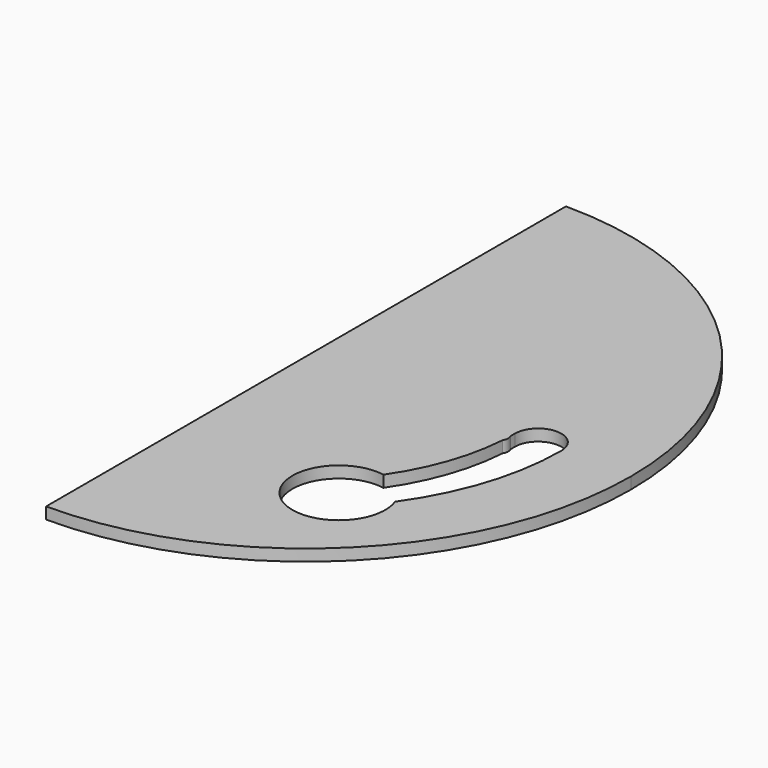
from build123d import *

# Parameters (mm, degrees)
F1_DEPTH = 1.5875


with BuildPart() as f1:
    # F0 (on Top) → F1 (new body)
    with BuildSketch(Plane.XY):
        with BuildLine():
            ThreePointArc((0, -44.45), (31.430896, -31.430896), (44.45, 0))
            ThreePointArc((44.45, 0), (31.430896, 31.430896), (0, 44.45))
            Line((0, 44.45), (0, -44.45))
        make_face()
        with BuildLine():
            ThreePointArc((28.575, 0), (31.75, 3.175), (34.925, 0))
            ThreePointArc((34.925, 0), (33.259902, -10.65526), (28.423379, -20.294511))
            ThreePointArc((28.423379, -20.294511), (18.366773, -27.313204), (23.54243, -16.195203))
            ThreePointArc((23.54243, -16.195203), (26.972249, -9.435487), (28.504091, -2.011817))
            ThreePointArc((28.504091, -2.011817), (28.709383, -1.378157), (28.565731, -0.727747))
            ThreePointArc((28.565731, -0.727747), (28.572683, -0.363903), (28.575, 0))
        make_face(mode=Mode.SUBTRACT)
    extrude(amount=F1_DEPTH)


solid = f1.part
